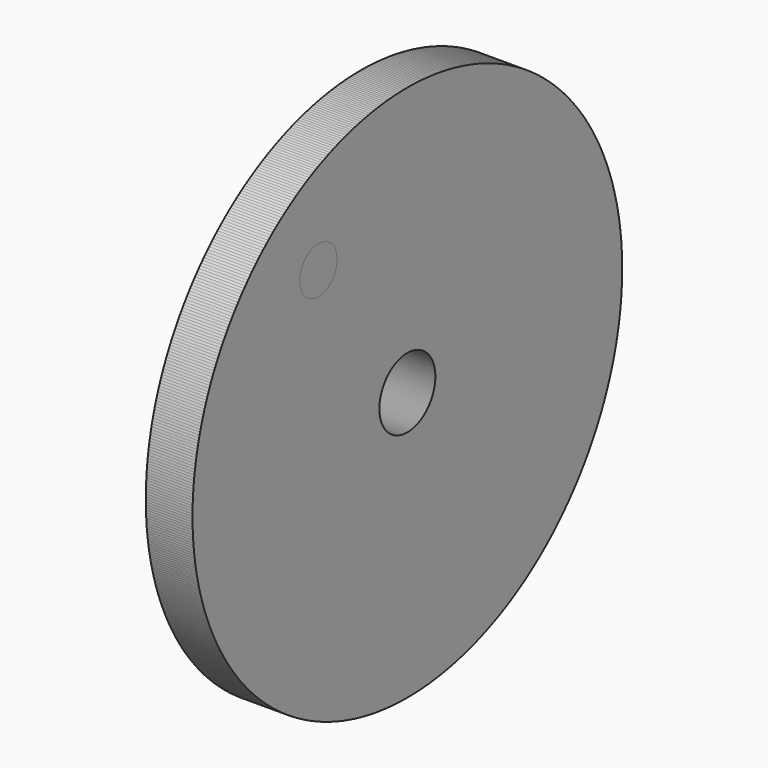
from build123d import *

# Parameters (mm, degrees)
F3_D     = 12.7
F4_COUNT = 10


with BuildPart() as f1:
    # F0 (on Front) → F1 (revolve)
    with BuildSketch(Plane.XZ):
        Polygon((0, 25.4), (0, 0), (22.236075, 0), (22.236075, 63.496314), (9.536075, 63.496314), (9.536075, 25.4), align=None)
    revolve(axis=Axis((-1.674259, 0, -9.525), (-1, 0, 0)))

    # F3 (through all)
    with Locations(Plane(origin=(0, 0, 0), x_dir=(0, -1, 0), z_dir=(-1, 0, 0))):
        with Locations((0, 41.91)):
            Hole(F3_D / 2)


with BuildPart() as f4_1:
    # F4: instance of F1
    add(f1.part.rotate(Axis((0, 0, -9.525), (-1, 0, 0)), 1 * 360 / F4_COUNT))


with BuildPart() as f4_2:
    # F4: instance of F1
    add(f1.part.rotate(Axis((0, 0, -9.525), (-1, 0, 0)), 2 * 360 / F4_COUNT))


with BuildPart() as f4_3:
    # F4: instance of F1
    add(f1.part.rotate(Axis((0, 0, -9.525), (-1, 0, 0)), 3 * 360 / F4_COUNT))


with BuildPart() as f4_4:
    # F4: instance of F1
    add(f1.part.rotate(Axis((0, 0, -9.525), (-1, 0, 0)), 4 * 360 / F4_COUNT))


with BuildPart() as f4_5:
    # F4: instance of F1
    add(f1.part.rotate(Axis((0, 0, -9.525), (-1, 0, 0)), 5 * 360 / F4_COUNT))


with BuildPart() as f4_6:
    # F4: instance of F1
    add(f1.part.rotate(Axis((0, 0, -9.525), (-1, 0, 0)), 6 * 360 / F4_COUNT))


with BuildPart() as f4_7:
    # F4: instance of F1
    add(f1.part.rotate(Axis((0, 0, -9.525), (-1, 0, 0)), 7 * 360 / F4_COUNT))


with BuildPart() as f4_8:
    # F4: instance of F1
    add(f1.part.rotate(Axis((0, 0, -9.525), (-1, 0, 0)), 8 * 360 / F4_COUNT))


with BuildPart() as f4_9:
    # F4: instance of F1
    add(f1.part.rotate(Axis((0, 0, -9.525), (-1, 0, 0)), 9 * 360 / F4_COUNT))


solid = Compound([f1.part, f4_1.part, f4_2.part, f4_3.part, f4_4.part, f4_5.part, f4_6.part, f4_7.part, f4_8.part, f4_9.part])
